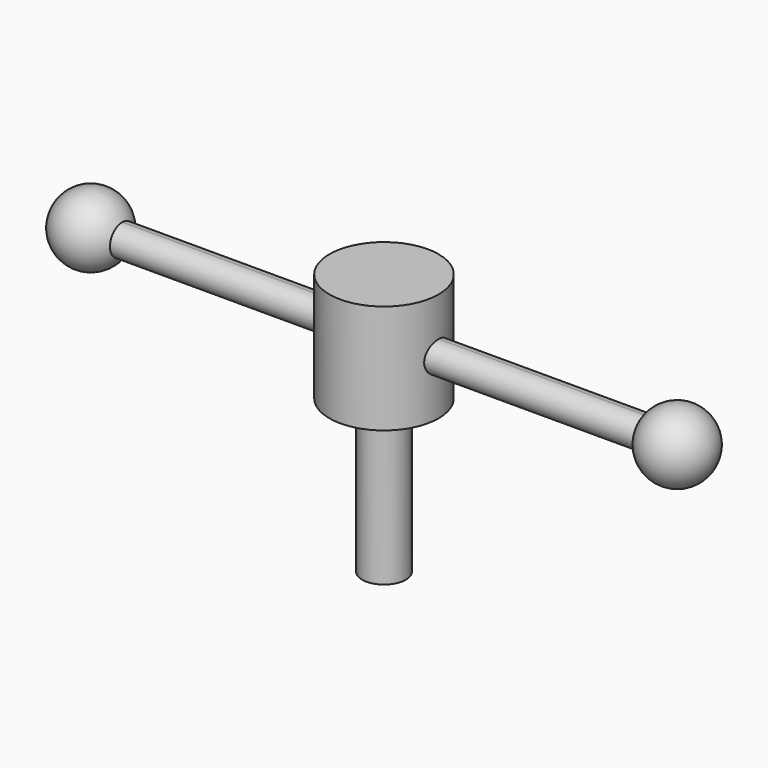
from build123d import *

# Parameters (mm, degrees)
F0_R          = 15.875
F1_DEPTH      = 31.75
F2_R          = 6.35
F3_DEPTH      = 44.45
F5_DEPTH      = 76.2
F5_DEPTH_BACK = 76.2


with BuildPart() as f1:
    # F0 (on Top) → F1 (new body)
    with BuildSketch(Plane.XY):
        Circle(F0_R)
    extrude(amount=F1_DEPTH)

    # F2 (on face) → F3 (join)
    with BuildSketch(Plane(origin=(0, 0, 0), x_dir=(1, 0, 0), z_dir=(0, 0, -1))):
        Circle(F2_R)
    extrude(amount=F3_DEPTH)

    # F4 (on Right) → F5 (join, two sides)
    with BuildSketch(Plane.YZ) as f5_sk:
        with BuildLine():
            ThreePointArc((0, 20.32), (-4.445, 15.875), (0, 11.43))
            Line((0, 11.43), (0, 20.32))
        make_face()
        with BuildLine():
            Line((0, 20.32), (0, 11.43))
            ThreePointArc((0, 11.43), (3.14309, 12.73191), (4.445, 15.875))
            ThreePointArc((4.445, 15.875), (3.14309, 19.01809), (0, 20.32))
        make_face()
    extrude(amount=F5_DEPTH)
    extrude(f5_sk.sketch, amount=-F5_DEPTH_BACK)

    # F6 (on Front) → F7 (revolve)
    with BuildSketch(Plane.XZ):
        with BuildLine():
            ThreePointArc((95.496059, 15.875), (87.616765, 25.775706), (76.2, 20.32))
            Line((76.2, 20.32), (76.2, 15.875))
            Line((76.2, 15.875), (95.496059, 15.875))
        make_face()
        with BuildLine():
            Line((-76.2, 15.875), (-76.2, 20.32))
            ThreePointArc((-76.2, 20.32), (-87.616765, 25.775706), (-95.496059, 15.875))
            Line((-95.496059, 15.875), (-76.2, 15.875))
        make_face()
    revolve(axis=Axis((48.289891, 0, 15.875), (1, 0, 0)))


solid = f1.part
